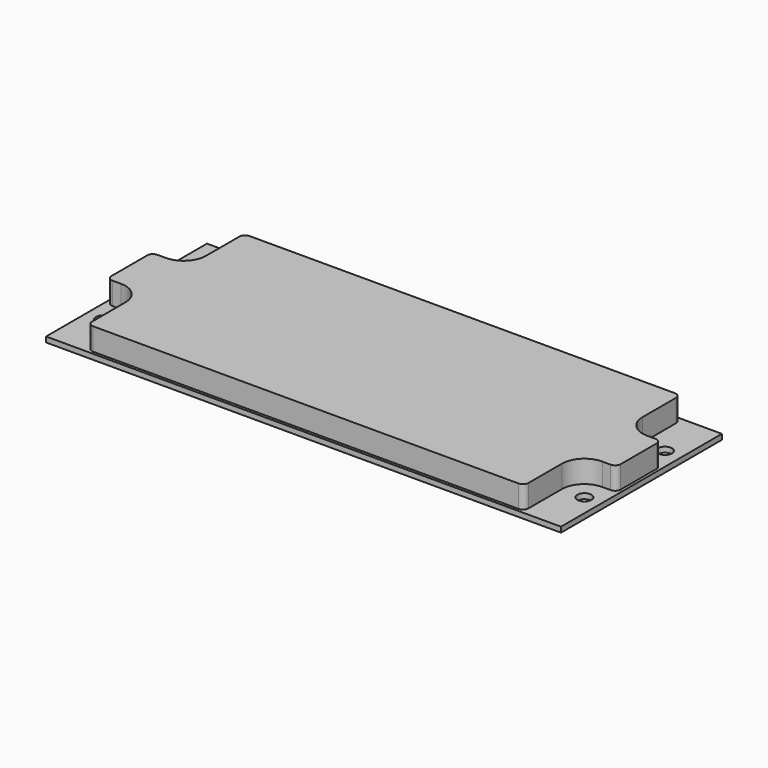
from build123d import *

# Parameters (mm, degrees)
F0_R     = 2
F0_R_2   = 4.7625
F1_DEPTH = 1.5
F3_DEPTH = 6.35


with BuildPart() as f1:
    # F0 (on Top) → F1 (new body)
    with BuildSketch(Plane.XY):
        with BuildLine():
            Line((-73.025, 7.9375), (-73.025, -7.9375))
            Line((-73.025, -7.9375), (-68.2625, -7.9375))
            ThreePointArc((-68.2625, -7.9375), (-61.9125, -14.2875), (-68.2625, -20.6375))
            Line((-68.2625, -20.6375), (-73.025, -20.6375))
            Line((-73.025, -20.6375), (-73.025, -28.525))
            Line((-73.025, -28.525), (73.025, -28.525))
            Line((73.025, -28.525), (73.025, -20.6375))
            Line((73.025, -20.6375), (68.2625, -20.6375))
            ThreePointArc((68.2625, -20.6375), (61.9125, -14.2875), (68.2625, -7.9375))
            Line((68.2625, -7.9375), (73.025, -7.9375))
            Line((73.025, -7.9375), (73.025, 7.9375))
            Line((73.025, 7.9375), (68.2625, 7.9375))
            ThreePointArc((68.2625, 7.9375), (61.9125, 14.2875), (68.2625, 20.6375))
            Line((68.2625, 20.6375), (73.025, 20.6375))
            Line((73.025, 20.6375), (73.025, 28.525))
            Line((73.025, 28.525), (-73.025, 28.525))
            Line((-73.025, 28.525), (-73.025, 20.6375))
            Line((-73.025, 20.6375), (-68.2625, 20.6375))
            ThreePointArc((-68.2625, 20.6375), (-61.9125, 14.2875), (-68.2625, 7.9375))
            Line((-68.2625, 7.9375), (-73.025, 7.9375))
        make_face()
        with BuildLine():
            Line((-73.025, 14.2875), (-73.025, 7.9375))
            Line((-73.025, 7.9375), (-68.2625, 7.9375))
            ThreePointArc((-68.2625, 7.9375), (-61.9125, 14.2875), (-68.2625, 20.6375))
            Line((-68.2625, 20.6375), (-73.025, 20.6375))
            Line((-73.025, 20.6375), (-73.025, 14.2875))
        make_face()
        with BuildLine():
            ThreePointArc((-63.5, 14.2875), (-68.2625, 9.525), (-73.025, 14.2875))
            ThreePointArc((-73.025, 14.2875), (-68.2625, 19.05), (-63.5, 14.2875))
        make_face(mode=Mode.SUBTRACT)
        with BuildLine():
            ThreePointArc((-63.5, 14.2875), (-68.2625, 19.05), (-73.025, 14.2875))
            ThreePointArc((-73.025, 14.2875), (-68.2625, 9.525), (-63.5, 14.2875))
        make_face()
        with Locations((-68.2625, 14.2875)):
            Circle(F0_R, mode=Mode.SUBTRACT)
        with BuildLine():
            Line((-73.025, -7.9375), (-73.025, -14.2875))
            Line((-73.025, -14.2875), (-73.025, -20.6375))
            Line((-73.025, -20.6375), (-68.2625, -20.6375))
            ThreePointArc((-68.2625, -20.6375), (-61.9125, -14.2875), (-68.2625, -7.9375))
            Line((-68.2625, -7.9375), (-73.025, -7.9375))
        make_face()
        with BuildLine():
            ThreePointArc((-73.025, -14.2875), (-68.2625, -9.525), (-63.5, -14.2875))
            ThreePointArc((-63.5, -14.2875), (-68.2625, -19.05), (-73.025, -14.2875))
        make_face(mode=Mode.SUBTRACT)
        with BuildLine():
            ThreePointArc((-73.025, -14.2875), (-68.2625, -19.05), (-63.5, -14.2875))
            ThreePointArc((-63.5, -14.2875), (-68.2625, -9.525), (-73.025, -14.2875))
        make_face()
        with Locations((-68.2625, -14.2875)):
            Circle(F0_R, mode=Mode.SUBTRACT)
        with BuildLine():
            Line((73.025, 14.2875), (73.025, 20.6375))
            Line((73.025, 20.6375), (68.2625, 20.6375))
            ThreePointArc((68.2625, 20.6375), (61.9125, 14.2875), (68.2625, 7.9375))
            Line((68.2625, 7.9375), (73.025, 7.9375))
            Line((73.025, 7.9375), (73.025, 14.2875))
        make_face()
        with Locations((68.2625, 14.2875)):
            Circle(F0_R_2, mode=Mode.SUBTRACT)
        with Locations((68.2625, 14.2875)):
            Circle(F0_R_2)
        with Locations((68.2625, 14.2875)):
            Circle(F0_R, mode=Mode.SUBTRACT)
        with BuildLine():
            Line((68.2625, -20.6375), (73.025, -20.6375))
            Line((73.025, -20.6375), (73.025, -14.2875))
            Line((73.025, -14.2875), (73.025, -7.9375))
            Line((73.025, -7.9375), (68.2625, -7.9375))
            ThreePointArc((68.2625, -7.9375), (61.9125, -14.2875), (68.2625, -20.6375))
        make_face()
        with Locations((68.2625, -14.2875)):
            Circle(F0_R_2, mode=Mode.SUBTRACT)
        with Locations((68.2625, -14.2875)):
            Circle(F0_R_2)
        with Locations((68.2625, -14.2875)):
            Circle(F0_R, mode=Mode.SUBTRACT)
    extrude(amount=F1_DEPTH)


with BuildPart() as f3:
    # F2 (on face) → F3 (new body)
    with BuildSketch(Plane.XY.offset(1.5)):
        with BuildLine():
            Line((70.637, 7.9375), (68.2625, 7.9375))
            ThreePointArc((68.2625, 7.9375), (63.7723719395, 9.7973719395), (61.9125, 14.2875))
            Line((61.9125, 14.2875), (61.9125, 26.137))
            ThreePointArc((61.9125, 26.137), (61.4473855685, 27.2598855685), (60.3245, 27.725))
            Line((60.3245, 27.725), (-60.3245, 27.725))
            ThreePointArc((-60.3245, 27.725), (-61.4473855685, 27.2598855685), (-61.9125, 26.137))
            Line((-61.9125, 26.137), (-61.9125, 14.2875))
            ThreePointArc((-61.9125, 14.2875), (-63.7723719395, 9.7973719395), (-68.2625, 7.9375))
            Line((-68.2625, 7.9375), (-70.637, 7.9375))
            ThreePointArc((-70.637, 7.9375), (-71.7598855685, 7.4723855685), (-72.225, 6.3495))
            Line((-72.225, 6.3495), (-72.225, -6.3495))
            ThreePointArc((-72.225, -6.3495), (-71.7598855685, -7.4723855685), (-70.637, -7.9375))
            Line((-70.637, -7.9375), (-68.2625, -7.9375))
            ThreePointArc((-68.2625, -7.9375), (-63.7723719395, -9.7973719395), (-61.9125, -14.2875))
            Line((-61.9125, -14.2875), (-61.9125, -26.137))
            ThreePointArc((-61.9125, -26.137), (-61.4473855685, -27.2598855685), (-60.3245, -27.725))
            Line((-60.3245, -27.725), (60.3245, -27.725))
            ThreePointArc((60.3245, -27.725), (61.4473855685, -27.2598855685), (61.9125, -26.137))
            Line((61.9125, -26.137), (61.9125, -14.2875))
            ThreePointArc((61.9125, -14.2875), (63.7723719395, -9.7973719395), (68.2625, -7.9375))
            Line((68.2625, -7.9375), (70.637, -7.9375))
            ThreePointArc((70.637, -7.9375), (71.7598855685, -7.4723855685), (72.225, -6.3495))
            Line((72.225, -6.3495), (72.225, 6.3495))
            ThreePointArc((72.225, 6.3495), (71.7598855685, 7.4723855685), (70.637, 7.9375))
        make_face()
    extrude(amount=F3_DEPTH)


solid = Compound([f1.part, f3.part])
